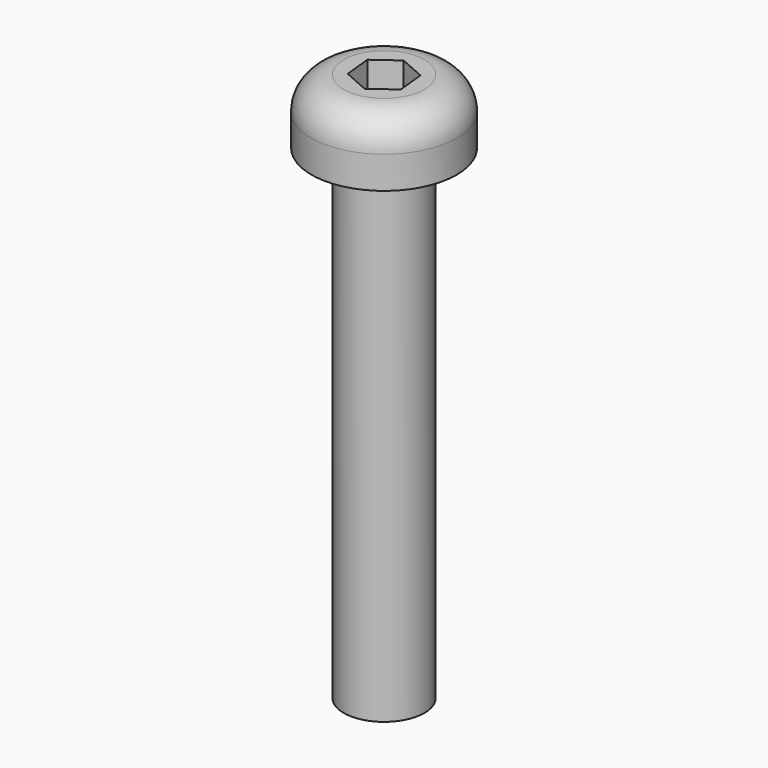
from build123d import *

# Parameters (mm, degrees)
F0_R     = 2.5
F1_DEPTH = 30
F2_R     = 4.5
F3_DEPTH = 4
F4_R     = 2
F6_DEPTH = 4


with BuildPart() as f1:
    # F0 (on Top) → F1 (new body)
    with BuildSketch(Plane.XY):
        Circle(F0_R)
    extrude(amount=F1_DEPTH)

    # F2 (on face) → F3 (join)
    with BuildSketch(Plane.XY.offset(30)):
        Circle(F2_R)
    extrude(amount=F3_DEPTH)

    # F4
    f4_edges = [f1.edges().sort_by_distance(p)[0] for p in [
        (-4.5, 0, 34),
    ]]
    fillet(f4_edges, radius=F4_R)

    # F5 (on face) → F6 (cut)
    with BuildSketch(Plane.XY.offset(34)):
        Polygon((-0.185112, 1.748257), (-1.606591, 0.713817), (-1.421479, -1.03444), (0.185112, -1.748257), (1.606591, -0.713817), (1.421479, 1.03444), align=None)
    extrude(amount=-F6_DEPTH, mode=Mode.SUBTRACT)


solid = f1.part
